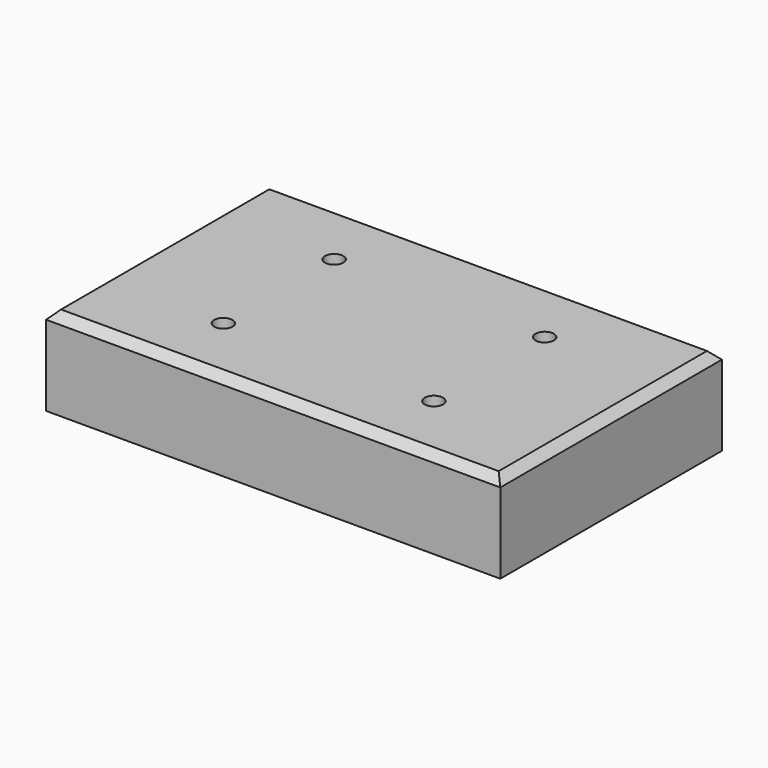
from build123d import *

# Parameters (mm, degrees)
F0_W     = 82
F0_H     = 50
F1_DEPTH = 16
F2_SIZE  = 1.5
F4_D     = 3.3
F4_DEPTH = 8.1
F4_TIP   = 0.9914200214


with BuildPart() as f1:
    # F0 (on Top) → F1 (new body)
    with BuildSketch(Plane.XY):
        with Locations((13.6976632877, 2.3044347763)):
            Rectangle(F0_W, F0_H)
    extrude(amount=F1_DEPTH)

    # F2
    f2_edges = [f1.edges().sort_by_distance(p)[0] for p in [
        (13.697663, -22.695565, 16),
        (54.697663, 2.304435, 16),
        (13.697663, 27.304435, 16),
        (-27.302337, 2.304435, 16),
    ]]
    chamfer(f2_edges, length=F2_SIZE)

    # F4
    with Locations(Plane.XY.offset(16)):
        with Locations((-5.3023367123, 14.8044347763), (-5.3023367123, -10.1955652237), (32.6976632877, 14.8044347763), (32.6976632877, -10.1955652237)):
            Hole(F4_D / 2, depth=F4_DEPTH)
            with Locations((0, 0, -(F4_DEPTH + F4_TIP / 2))):  # 118° drill point
                Cone(0, F4_D / 2, F4_TIP, mode=Mode.SUBTRACT)


solid = f1.part
